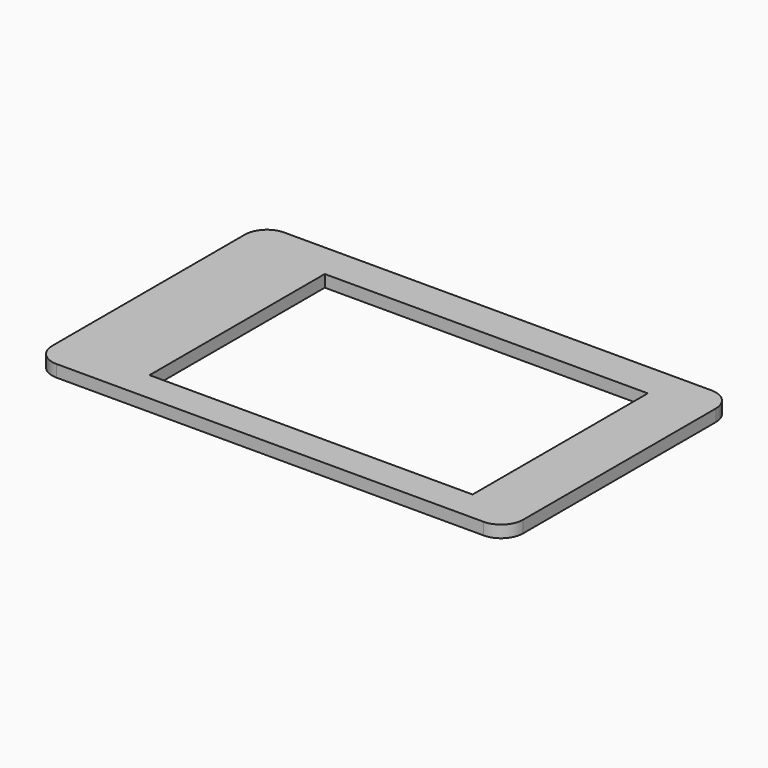
from build123d import *

# Parameters (mm, degrees)
BOX024_W     = 59
BOX024_H     = 40
BOX024_DEPTH = 4
BOX002_W     = 86
BOX002_H     = 52
BOX002_DEPTH = 2.2
FILLET_R     = 4


with BuildPart() as display_cut:
    # Box024 → Box024 (new body)
    with BuildSketch(Plane(origin=(-26.5, -20.4, -18), x_dir=(1, 0, 0), z_dir=(0, 0, 1))):
        with Locations((29.5, 20)):
            Rectangle(BOX024_W, BOX024_H)
    extrude(amount=BOX024_DEPTH)


with BuildPart() as main_lid:
    # Box002 → Box002 (new body)
    with BuildSketch(Plane(origin=(-43, -26, -17.2), x_dir=(1, 0, 0), z_dir=(0, 0, 1))):
        with Locations((43, 26)):
            Rectangle(BOX002_W, BOX002_H)
    extrude(amount=BOX002_DEPTH)

    # Fillet
    fillet_edges = [main_lid.edges().sort_by_distance(p)[0] for p in [
        (-43, -26, -16.1),
        (-43, 26, -16.1),
        (43, -26, -16.1),
        (43, 26, -16.1),
    ]]
    fillet(fillet_edges, radius=FILLET_R)

    # Cut004: cut Display Cut
    add(display_cut.part, mode=Mode.SUBTRACT)


solid = main_lid.part
